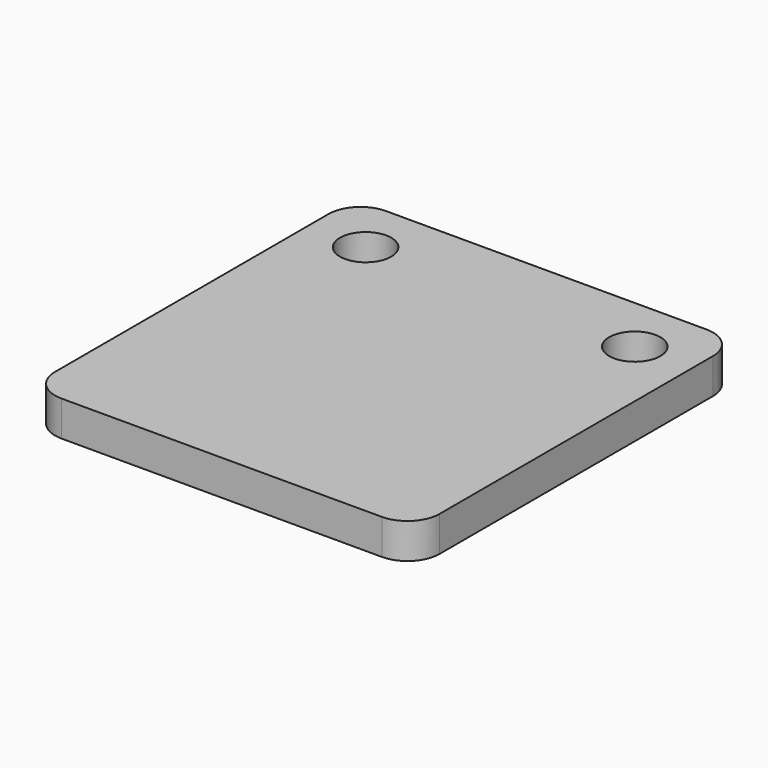
from build123d import *

# Parameters (mm, degrees)
F0_W     = 18
F0_H     = 19
F0_R     = 1.2
F1_DEPTH = 1.65
F2_R     = 1.5


with BuildPart() as f1:
    # F0 (on Top) → F1 (new body)
    with BuildSketch(Plane.XY):
        Rectangle(F0_W, F0_H)
        with Locations((-6.3, 6.8)):
            Circle(F0_R, mode=Mode.SUBTRACT)
        with Locations((6.3, 6.8)):
            Circle(F0_R, mode=Mode.SUBTRACT)
    extrude(amount=F1_DEPTH)

    # F2
    f2_edges = [f1.edges().sort_by_distance(p)[0] for p in [
        (-9, -9.5, 0.825),
        (9, -9.5, 0.825),
        (9, 9.5, 0.825),
        (-9, 9.5, 0.825),
    ]]
    fillet(f2_edges, radius=F2_R)


solid = f1.part
